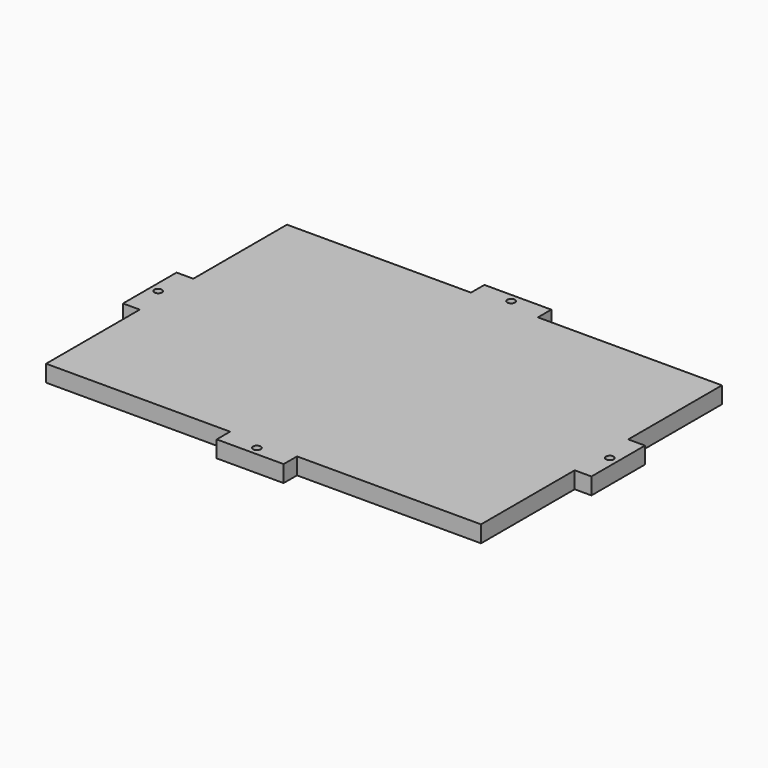
from build123d import *

# Parameters (mm, degrees)
F0_R     = 1.4605
F1_DEPTH = 6.35


with BuildPart() as f1:
    # F0 (on Top) → F1 (new body)
    with BuildSketch(Plane.XY):
        Polygon((-12.7, -63.5), (12.7, -63.5), (12.7, -57.149999), (82.549999, -57.149999), (82.549999, -12.7), (88.9, -12.7), (88.9, 12.7), (82.549999, 12.7), (82.549999, 57.149999), (12.7, 57.149999), (12.7, 63.5), (-12.7, 63.5), (-12.7, 57.149999), (-82.549999, 57.149999), (-82.549999, 12.7), (-88.9, 12.7), (-88.9, -12.7), (-82.549999, -12.7), (-82.549999, -57.149999), (-12.7, -57.149999), align=None)
        with Locations((0, -60.324999)):
            Circle(F0_R, mode=Mode.SUBTRACT)
        with Locations((-85.724999, 0)):
            Circle(F0_R, mode=Mode.SUBTRACT)
        with Locations((85.724999, 0)):
            Circle(F0_R, mode=Mode.SUBTRACT)
        with Locations((0, 60.324999)):
            Circle(F0_R, mode=Mode.SUBTRACT)
    extrude(amount=F1_DEPTH)


solid = f1.part
